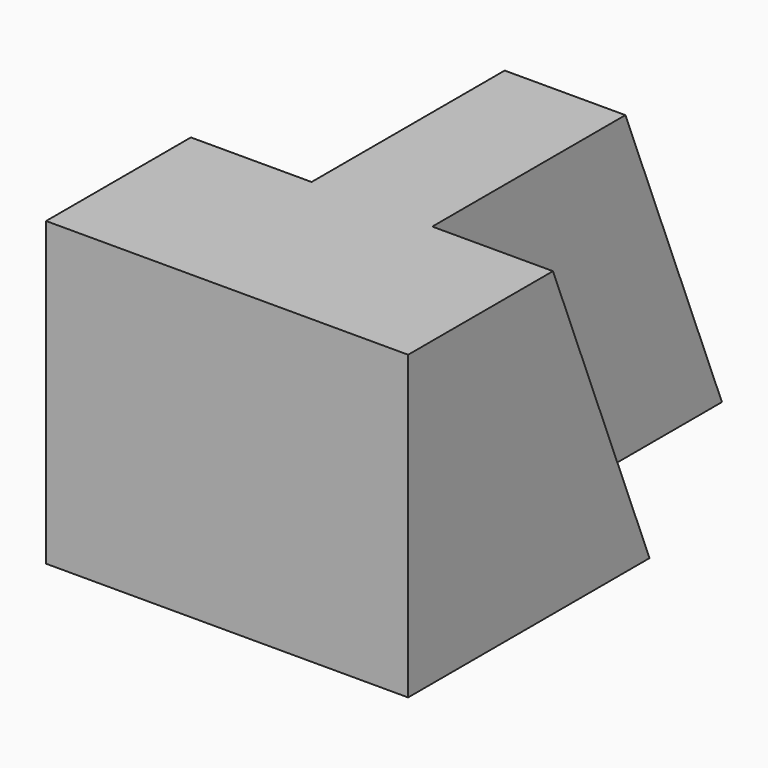
from build123d import *

# Parameters (mm, degrees)
F0_W     = 57.15
F0_H     = 31.75
F1_DEPTH = 38.1
F3_DEPTH = 12.7
F4_DEPTH = 38.1
F6_DEPTH = 12.7


with BuildPart() as f1:
    # F0 (on Right) → F1 (new body)
    with BuildSketch(Plane.YZ):
        with Locations((-42.5905166194, 33.662993957)):
            Rectangle(F0_W, F0_H)
    extrude(amount=F1_DEPTH)

    # F2 (on face) → F3 (cut)
    with BuildSketch(Plane.YZ.offset(38.1)):
        Polygon((-14.0155166194, 17.787993957), (-26.7155166194, 49.537993957), (-52.1155166194, 49.537993957), (-39.4155166194, 17.787993957), align=None)
    extrude(amount=-F3_DEPTH, mode=Mode.SUBTRACT)

    # F4 (cut): a face of the model
    f4_faces = [f1.faces().sort_by_distance(p)[0] for p in [
        (38.1, -18.2488499527, 38.9546606237),
    ]]
    extrude(f4_faces, amount=-F4_DEPTH, mode=Mode.SUBTRACT)

    # F5 (on face) → F6 (cut)
    with BuildSketch(Plane(origin=(0, 0, 0), x_dir=(0, -1, 0), z_dir=(-1, 0, 0))):
        Polygon((39.4155166194, 17.787993957), (52.1155166194, 49.537993957), (26.7155166194, 49.537993957), (14.0155166194, 17.787993957), align=None)
    extrude(amount=-F6_DEPTH, mode=Mode.SUBTRACT)


solid = f1.part
